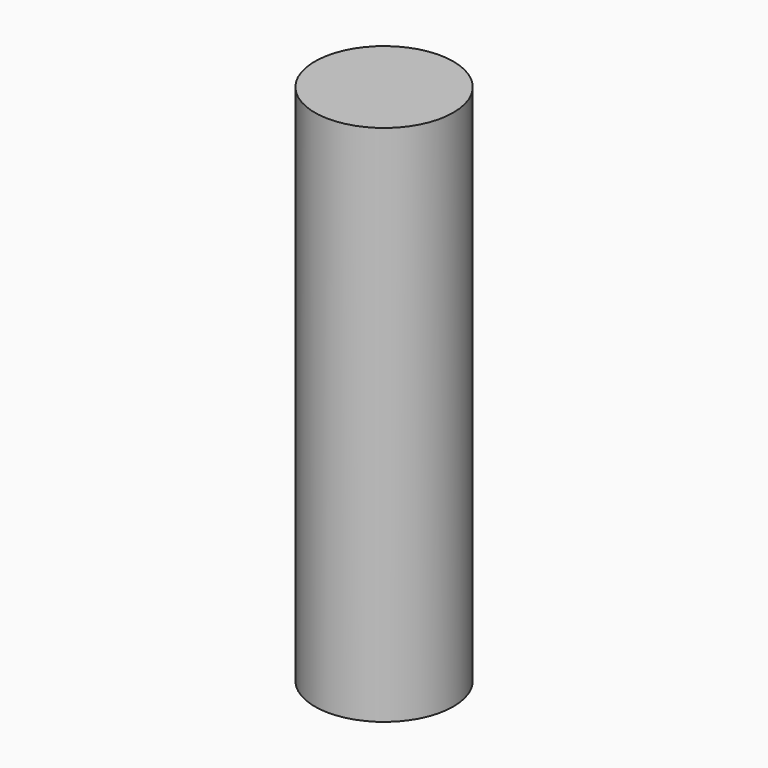
from build123d import *

# Parameters (mm, degrees)
CYLINDER_R     = 1.98755
CYLINDER_DEPTH = 15


with BuildPart() as part:
    # Cylinder → Cylinder (new body)
    with BuildSketch(Plane.XY.offset(-2.5)):
        Circle(CYLINDER_R)
    extrude(amount=CYLINDER_DEPTH)


solid = part.part
